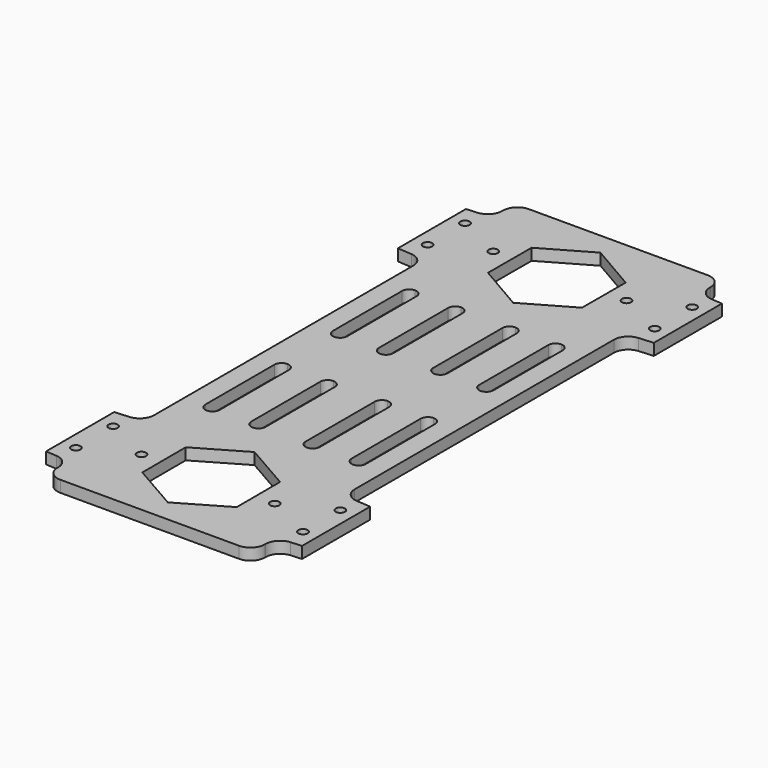
from build123d import *

# Parameters (mm, degrees)
F0_R     = 1.6
F1_DEPTH = 4


with BuildPart() as f1:
    # F0 (on Top) → F1 (new body)
    with BuildSketch(Plane.XY):
        with BuildLine():
            Line((-44.408627, -61.525488), (-44.408627, -91.060406))
            Line((-44.408627, -91.060406), (-40.651218, -91.32315))
            ThreePointArc((-40.651218, -91.32315), (-37.343231, -92.900978), (-36, -96.31097))
            Line((-36, -96.31097), (-36, -96.648395))
            ThreePointArc((-36, -96.648395), (-34.535534, -100.183929), (-31, -101.648395))
            Line((-31, -101.648395), (0, -101.648395))
            Line((0, -101.648395), (31, -101.648395))
            ThreePointArc((31, -101.648395), (34.535534, -100.183929), (36, -96.648395))
            Line((36, -96.648395), (36, -96.31097))
            ThreePointArc((36, -96.31097), (37.343231, -92.900978), (40.651218, -91.32315))
            Line((40.651218, -91.32315), (44.408627, -91.060406))
            Line((44.408627, -91.060406), (44.408627, -61.525488))
            Line((44.408627, -61.525488), (39.450638, -61.178791))
            ThreePointArc((39.450638, -61.178791), (36.142652, -59.600963), (34.799421, -56.190971))
            Line((34.799421, -56.190971), (34.799421, 0))
            Line((34.799421, 0), (34.799421, 56.190971))
            ThreePointArc((34.799421, 56.190971), (36.142652, 59.600963), (39.450638, 61.178791))
            Line((39.450638, 61.178791), (44.408627, 61.525488))
            Line((44.408627, 61.525488), (44.408627, 91.060406))
            Line((44.408627, 91.060406), (40.651218, 91.32315))
            ThreePointArc((40.651218, 91.32315), (37.343231, 92.900978), (36, 96.31097))
            Line((36, 96.31097), (36, 96.648395))
            ThreePointArc((36, 96.648395), (34.535534, 100.183929), (31, 101.648395))
            Line((31, 101.648395), (0, 101.648395))
            Line((0, 101.648395), (-31, 101.648395))
            ThreePointArc((-31, 101.648395), (-34.535534, 100.183929), (-36, 96.648395))
            Line((-36, 96.648395), (-36, 96.31097))
            ThreePointArc((-36, 96.31097), (-37.343231, 92.900978), (-40.651218, 91.32315))
            Line((-40.651218, 91.32315), (-44.408627, 91.060406))
            Line((-44.408627, 91.060406), (-44.408627, 61.525488))
            Line((-44.408627, 61.525488), (-39.450638, 61.178791))
            ThreePointArc((-39.450638, 61.178791), (-36.142652, 59.600963), (-34.799421, 56.190971))
            Line((-34.799421, 56.190971), (-34.799421, 0))
            Line((-34.799421, 0), (-34.799421, -56.190971))
            ThreePointArc((-34.799421, -56.190971), (-36.142652, -59.600963), (-39.450638, -61.178791))
            Line((-39.450638, -61.178791), (-44.408627, -61.525488))
        make_face()
        with Locations((-39.408627, -84.392947)):
            Circle(F0_R, mode=Mode.SUBTRACT)
        with Locations((-23.110468, -76.292947)):
            Circle(F0_R, mode=Mode.SUBTRACT)
        with Locations((-39.408627, -68.192947)):
            Circle(F0_R, mode=Mode.SUBTRACT)
        with BuildLine():
            ThreePointArc((-22.877386, -42.681136), (-23.609619, -44.448903), (-25.377386, -45.181136))
            ThreePointArc((-25.377386, -45.181136), (-27.145153, -44.448903), (-27.877386, -42.681136))
            Line((-27.877386, -42.681136), (-27.877386, -12.681136))
            ThreePointArc((-27.877386, -12.681136), (-27.145153, -10.913369), (-25.377386, -10.181136))
            ThreePointArc((-25.377386, -10.181136), (-23.609619, -10.913369), (-22.877386, -12.681136))
            Line((-22.877386, -12.681136), (-22.877386, -42.681136))
        make_face(mode=Mode.SUBTRACT)
        with BuildLine():
            ThreePointArc((-9.422034, -10.181136), (-7.654267, -10.913369), (-6.922034, -12.681136))
            Line((-6.922034, -12.681136), (-6.922034, -42.681136))
            ThreePointArc((-6.922034, -42.681136), (-7.654267, -44.448903), (-9.422034, -45.181136))
            ThreePointArc((-9.422034, -45.181136), (-11.189801, -44.448903), (-11.922034, -42.681136))
            Line((-11.922034, -42.681136), (-11.922034, -12.681136))
            ThreePointArc((-11.922034, -12.681136), (-11.189801, -10.913369), (-9.422034, -10.181136))
        make_face(mode=Mode.SUBTRACT)
        Polygon((16.318487, -65.480797), (16.364526, -84.350343), (0.046039, -93.824987), (-16.318487, -84.430085), (-16.364526, -65.560539), (-0.046039, -56.085895), align=None, mode=Mode.SUBTRACT)
        with Locations((23.110468, -76.292947)):
            Circle(F0_R, mode=Mode.SUBTRACT)
        with Locations((39.408627, -84.392947)):
            Circle(F0_R, mode=Mode.SUBTRACT)
        with Locations((39.408627, -68.192947)):
            Circle(F0_R, mode=Mode.SUBTRACT)
        with BuildLine():
            ThreePointArc((6.922034, -12.681136), (7.654267, -10.913369), (9.422034, -10.181136))
            ThreePointArc((9.422034, -10.181136), (11.189801, -10.913369), (11.922034, -12.681136))
            Line((11.922034, -12.681136), (11.922034, -42.681136))
            ThreePointArc((11.922034, -42.681136), (11.189801, -44.448903), (9.422034, -45.181136))
            ThreePointArc((9.422034, -45.181136), (7.654267, -44.448903), (6.922034, -42.681136))
            Line((6.922034, -42.681136), (6.922034, -12.681136))
        make_face(mode=Mode.SUBTRACT)
        with BuildLine():
            ThreePointArc((25.377386, -45.181136), (23.609619, -44.448903), (22.877386, -42.681136))
            Line((22.877386, -42.681136), (22.877386, -12.681136))
            ThreePointArc((22.877386, -12.681136), (23.609619, -10.913369), (25.377386, -10.181136))
            ThreePointArc((25.377386, -10.181136), (27.145153, -10.913369), (27.877386, -12.681136))
            Line((27.877386, -12.681136), (27.877386, -42.681136))
            ThreePointArc((27.877386, -42.681136), (27.145153, -44.448903), (25.377386, -45.181136))
        make_face(mode=Mode.SUBTRACT)
        with BuildLine():
            ThreePointArc((-22.877386, 12.681136), (-23.609619, 10.913369), (-25.377386, 10.181136))
            ThreePointArc((-25.377386, 10.181136), (-27.145153, 10.913369), (-27.877386, 12.681136))
            Line((-27.877386, 12.681136), (-27.877386, 42.681136))
            ThreePointArc((-27.877386, 42.681136), (-27.145153, 44.448903), (-25.377386, 45.181136))
            ThreePointArc((-25.377386, 45.181136), (-23.609619, 44.448903), (-22.877386, 42.681136))
            Line((-22.877386, 42.681136), (-22.877386, 12.681136))
        make_face(mode=Mode.SUBTRACT)
        with BuildLine():
            Line((-6.922034, 42.681136), (-6.922034, 12.681136))
            ThreePointArc((-6.922034, 12.681136), (-7.654267, 10.913369), (-9.422034, 10.181136))
            ThreePointArc((-9.422034, 10.181136), (-11.189801, 10.913369), (-11.922034, 12.681136))
            Line((-11.922034, 12.681136), (-11.922034, 42.681136))
            ThreePointArc((-11.922034, 42.681136), (-11.189801, 44.448903), (-9.422034, 45.181136))
            ThreePointArc((-9.422034, 45.181136), (-7.654267, 44.448903), (-6.922034, 42.681136))
        make_face(mode=Mode.SUBTRACT)
        with Locations((-39.408627, 68.192947)):
            Circle(F0_R, mode=Mode.SUBTRACT)
        with Locations((-39.408627, 84.392947)):
            Circle(F0_R, mode=Mode.SUBTRACT)
        with Locations((-23.110468, 76.292947)):
            Circle(F0_R, mode=Mode.SUBTRACT)
        with BuildLine():
            ThreePointArc((9.422034, 10.181136), (7.654267, 10.913369), (6.922034, 12.681136))
            Line((6.922034, 12.681136), (6.922034, 42.681136))
            ThreePointArc((6.922034, 42.681136), (7.654267, 44.448903), (9.422034, 45.181136))
            ThreePointArc((9.422034, 45.181136), (11.189801, 44.448903), (11.922034, 42.681136))
            Line((11.922034, 42.681136), (11.922034, 12.681136))
            ThreePointArc((11.922034, 12.681136), (11.189801, 10.913369), (9.422034, 10.181136))
        make_face(mode=Mode.SUBTRACT)
        with BuildLine():
            ThreePointArc((22.877386, 42.681136), (23.609619, 44.448903), (25.377386, 45.181136))
            ThreePointArc((25.377386, 45.181136), (27.145153, 44.448903), (27.877386, 42.681136))
            Line((27.877386, 42.681136), (27.877386, 12.681136))
            ThreePointArc((27.877386, 12.681136), (27.145153, 10.913369), (25.377386, 10.181136))
            ThreePointArc((25.377386, 10.181136), (23.609619, 10.913369), (22.877386, 12.681136))
            Line((22.877386, 12.681136), (22.877386, 42.681136))
        make_face(mode=Mode.SUBTRACT)
        Polygon((-0.046039, 56.085895), (-16.364526, 65.560539), (-16.318487, 84.430085), (0.046039, 93.824987), (16.364526, 84.350343), (16.318487, 65.480797), align=None, mode=Mode.SUBTRACT)
        with Locations((39.408627, 68.192947)):
            Circle(F0_R, mode=Mode.SUBTRACT)
        with Locations((23.110468, 76.292947)):
            Circle(F0_R, mode=Mode.SUBTRACT)
        with Locations((39.408627, 84.392947)):
            Circle(F0_R, mode=Mode.SUBTRACT)
    extrude(amount=F1_DEPTH)


solid = f1.part
